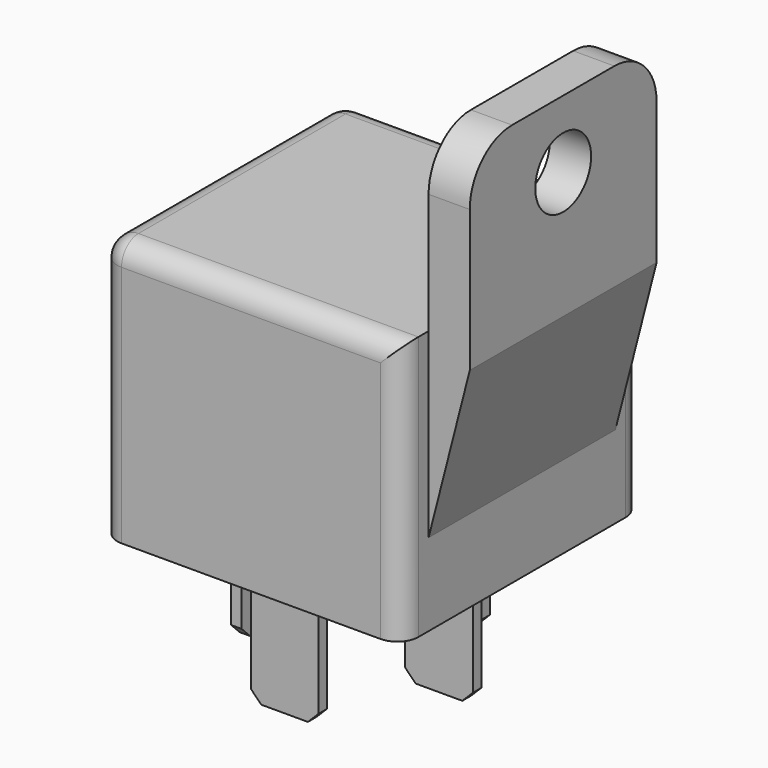
from build123d import *

# Parameters (mm, degrees)
F0_W      = 28.5
F0_H      = 28.5
F1_DEPTH  = 25
F3_START  = -3.2
F3_DEPTH  = 22.1
F4_DEPTH  = 18.4
F5_R      = 5
F6_R      = 3.3
F7_DEPTH  = 32.401
F8_R      = 2
F9_W      = 1
F9_H      = 6.4
F9_W_2    = 6.4
F9_H_2    = 1
F10_DEPTH = 11.8
F11_SIZE  = 1


with BuildPart() as f1:
    # F0 (on Top) → F1 (new body)
    with BuildSketch(Plane.XY):
        Rectangle(F0_W, F0_H)
    extrude(amount=F1_DEPTH)

    # F2 (on face) → F3 (join)
    with BuildSketch(Plane.XZ.offset(14.25).offset(F3_START)):
        Polygon((18.15, 23), (14.25, 23), (14.25, 7.7921073123), align=None)
    extrude(amount=-F3_DEPTH)

    # F4 (add): a face of the model
    f4_faces = [f1.faces().sort_by_distance(p)[0] for p in [
        (16.2, 0, 23),
    ]]
    extrude(f4_faces, amount=F4_DEPTH)

    # F5
    f5_edges = [f1.edges().sort_by_distance(p)[0] for p in [
        (16.2, -11.05, 41.4),
        (16.2, 11.05, 41.4),
    ]]
    fillet(f5_edges, radius=F5_R)

    # F6 (on face) → F7 (cut, through all)
    with BuildSketch(Plane.YZ.offset(18.15)):
        with Locations((0, 35)):
            Circle(F6_R)
    extrude(amount=-F7_DEPTH, mode=Mode.SUBTRACT)

    # F8
    f8_edges = [f1.edges().sort_by_distance(p)[0] for p in [
        (0, 14.25, 25),
        (-14.25, 0, 25),
        (0, -14.25, 25),
        (-14.25, 14.25, 12.5),
        (-14.25, -14.25, 12.5),
        (14.25, 14.25, 12.5),
        (14.25, -14.25, 12.5),
    ]]
    fillet(f8_edges, radius=F8_R)

    # F9 (on face) → F10 (join)
    with BuildSketch(Plane(origin=(0, 0, 0), x_dir=(1, 0, 0), z_dir=(0, 0, -1))):
        with Locations((-10.2151967585, 0)):
            Rectangle(F9_W, F9_H)
        with Locations((6.8018482998, 0)):
            Rectangle(F9_W_2, F9_H_2)
        with Locations((0, -9.5080761239)):
            Rectangle(F9_W_2, F9_H_2)
        with Locations((0, 9.7670005634)):
            Rectangle(F9_W_2, F9_H_2)
    extrude(amount=F10_DEPTH)

    # F11
    f11_edges = [f1.edges().sort_by_distance(p)[0] for p in [
        (-3.2, 9.508076, -11.8),
        (3.2, 9.508076, -11.8),
        (-10.215197, 3.2, -11.8),
        (-10.215197, -3.2, -11.8),
        (-3.2, -9.767001, -11.8),
        (3.2, -9.767001, -11.8),
        (3.601848, 0, -11.8),
        (10.001848, 0, -11.8),
    ]]
    chamfer(f11_edges, length=F11_SIZE)


solid = f1.part
